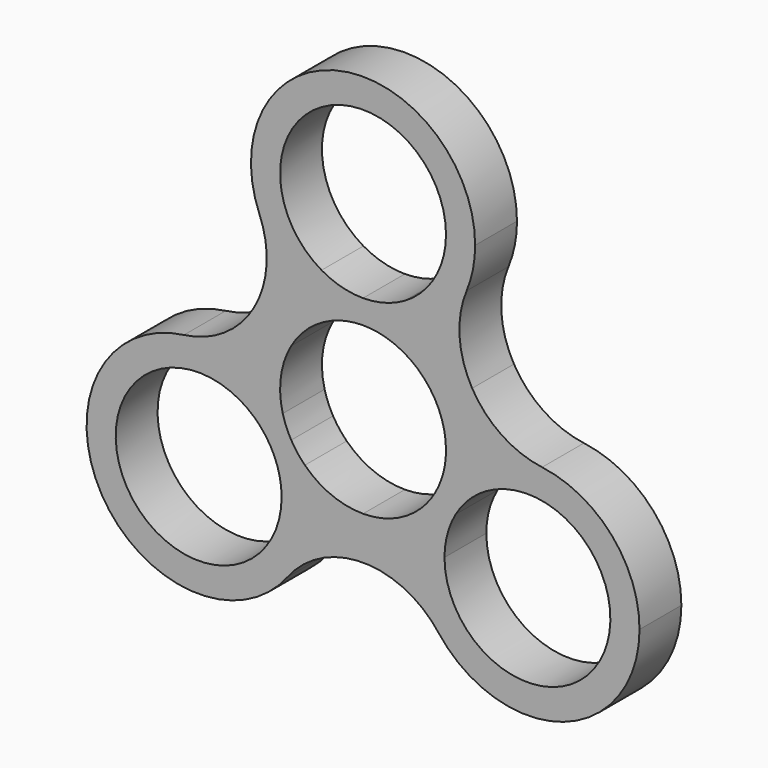
from build123d import *

# Parameters (mm, degrees)
F1_DEPTH = 7


with BuildPart() as f1:
    # F0 (on Front) → F1 (new body)
    with BuildSketch(Plane.XZ):
        with BuildLine():
            Line((-7, 0), (-10.9, 0))
            ThreePointArc((-10.9, 0), (-31.612881982, -5.55), (-16.45, 9.612881982))
            Line((-16.45, 9.612881982), (-14.5, 12.9903810568))
            ThreePointArc((-14.5, 12.9903810568), (-19.0765250841, 14.7123517636), (-23.9637150487, 14.8709052585))
            ThreePointArc((-23.9637150487, 14.8709052585), (-34.9903810568, -7.5), (-10.1032757932, -9.1360797472))
            ThreePointArc((-10.1032757932, -9.1360797472), (-7.7969921654, -4.8243723373), (-7, 0))
        make_face()
        with BuildLine():
            Line((0, 0), (-7, 0))
            ThreePointArc((-7, 0), (-7.7969921654, -4.8243723373), (-10.1032757932, -9.1360797472))
            ThreePointArc((-10.1032757932, -9.1360797472), (-5.6319588622, -5.4687614067), (0, -4.1561539699))
            Line((0, -4.1561539699), (0, 0))
        make_face()
        with BuildLine():
            ThreePointArc((-23.9637150487, 14.8709052585), (-19.0765250841, 14.7123517636), (-14.5, 12.9903810568))
            Line((-14.5, 12.9903810568), (-11, 19.0525588833))
            Line((-11, 19.0525588833), (-14.5993349199, 21.1306358682))
            ThreePointArc((-14.5993349199, 21.1306358682), (-18.5520657365, 16.9095201389), (-23.9637150487, 14.8709052585))
        make_face()
        with BuildLine():
            Line((7, 0), (0, 0))
            Line((0, 0), (0, -4.1561539699))
            ThreePointArc((0, -4.1561539699), (5.6319588622, -5.4687614067), (10.1032757932, -9.1360797472))
            ThreePointArc((10.1032757932, -9.1360797472), (7.7969921654, -4.8243723373), (7, 0))
        make_face()
        with BuildLine():
            Line((-14.5993349199, 21.1306358682), (-11, 19.0525588833))
            Line((-11, 19.0525588833), (-7.5, 25.1147367097))
            ThreePointArc((-7.5, 25.1147367097), (-11.2795329187, 28.2171383402), (-13.8604392555, 32.3702922552))
            ThreePointArc((-13.8604392555, 32.3702922552), (-12.9201068743, 26.6643590343), (-14.5993349199, 21.1306358682))
        make_face()
        with BuildLine():
            Line((10.9, 0), (7, 0))
            ThreePointArc((7, 0), (7.7969921654, -4.8243723373), (10.1032757932, -9.1360797472))
            ThreePointArc((10.1032757932, -9.1360797472), (26.8243723373, -14.2030078346), (37, 0))
            ThreePointArc((37, 0), (33.2795329187, 9.8879794263), (23.9637150487, 14.8709052585))
            ThreePointArc((23.9637150487, 14.8709052585), (19.0765250841, 14.7123517636), (14.5, 12.9903810568))
            Line((14.5, 12.9903810568), (16.45, 9.612881982))
            ThreePointArc((16.45, 9.612881982), (27.55, 9.612881982), (33.1, 0))
            ThreePointArc((33.1, 0), (22, -11.1), (10.9, 0))
        make_face()
        with BuildLine():
            ThreePointArc((-13.8604392555, 32.3702922552), (-11.2795329187, 28.2171383402), (-7.5, 25.1147367097))
            Line((-7.5, 25.1147367097), (-5.55, 28.4922357845))
            ThreePointArc((-5.55, 28.4922357845), (-5.55, 47.7179997485), (11.1, 38.1051177665))
            ThreePointArc((11.1, 38.1051177665), (9.612881982, 32.5551177665), (5.55, 28.4922357845))
            Line((5.55, 28.4922357845), (7.5, 25.1147367097))
            ThreePointArc((7.5, 25.1147367097), (11.2795329187, 28.2171383402), (13.8604392555, 32.3702922552))
            ThreePointArc((13.8604392555, 32.3702922552), (14.7123517636, 35.1816428506), (15, 38.1051177665))
            ThreePointArc((15, 38.1051177665), (-2.9234749159, 52.8174695301), (-13.8604392555, 32.3702922552))
        make_face()
        with BuildLine():
            Line((14.5993349199, 21.1306358682), (11, 19.0525588833))
            Line((11, 19.0525588833), (14.5, 12.9903810568))
            ThreePointArc((14.5, 12.9903810568), (19.0765250841, 14.7123517636), (23.9637150487, 14.8709052585))
            ThreePointArc((23.9637150487, 14.8709052585), (18.5520657365, 16.9095201389), (14.5993349199, 21.1306358682))
        make_face()
        with BuildLine():
            Line((7.5, 25.1147367097), (11, 19.0525588833))
            Line((11, 19.0525588833), (14.5993349199, 21.1306358682))
            ThreePointArc((14.5993349199, 21.1306358682), (12.9201068743, 26.6643590343), (13.8604392555, 32.3702922552))
            ThreePointArc((13.8604392555, 32.3702922552), (11.2795329187, 28.2171383402), (7.5, 25.1147367097))
        make_face()
        with BuildLine():
            Line((11, 19.0525588833), (9.612881982, 18.2517059222))
            ThreePointArc((9.612881982, 18.2517059222), (10.7217766718, 15.5745973228), (11.1, 12.7017059222))
            ThreePointArc((11.1, 12.7017059222), (11.0107964908, 11.2972983465), (10.7446197048, 9.9154633986))
            ThreePointArc((10.7446197048, 9.9154633986), (12.497113483, 11.6058238761), (14.5, 12.9903810568))
            Line((14.5, 12.9903810568), (11, 19.0525588833))
        make_face()
        with BuildLine():
            Line((9.612881982, 7.1517059222), (12.387118018, 5.55))
            ThreePointArc((12.387118018, 5.55), (14.1511147288, 7.8488852712), (16.45, 9.612881982))
            Line((16.45, 9.612881982), (14.5, 12.9903810568))
            ThreePointArc((14.5, 12.9903810568), (12.497113483, 11.6058238761), (10.7446197048, 9.9154633986))
            ThreePointArc((10.7446197048, 9.9154633986), (10.2721252708, 8.4953485406), (9.612881982, 7.1517059222))
        make_face()
        with BuildLine():
            ThreePointArc((7.7852666589, 4.7897135656), (7.1976184329, 2.426829195), (7, 0))
            Line((7, 0), (10.9, 0))
            ThreePointArc((10.9, 0), (11.2782233282, 2.8728914006), (12.387118018, 5.55))
            Line((12.387118018, 5.55), (9.612881982, 7.1517059222))
            ThreePointArc((9.612881982, 7.1517059222), (8.7788749852, 5.9089631776), (7.7852666589, 4.7897135656))
        make_face()
        with BuildLine():
            ThreePointArc((2.9593530459, 23.3999408023), (6.7927427446, 21.4805809074), (9.612881982, 18.2517059222))
            Line((9.612881982, 18.2517059222), (11, 19.0525588833))
            Line((11, 19.0525588833), (7.5, 25.1147367097))
            ThreePointArc((7.5, 25.1147367097), (5.2994950501, 24.0724646954), (2.9593530459, 23.3999408023))
        make_face()
        with BuildLine():
            ThreePointArc((5.55, 28.4922357845), (2.8728914006, 27.3833410947), (0, 27.0051177665))
            Line((0, 27.0051177665), (0, 23.8017059222))
            ThreePointArc((0, 23.8017059222), (1.4932502856, 23.7008060483), (2.9593530459, 23.3999408023))
            ThreePointArc((2.9593530459, 23.3999408023), (5.2994950501, 24.0724646954), (7.5, 25.1147367097))
            Line((7.5, 25.1147367097), (5.55, 28.4922357845))
        make_face()
        with BuildLine():
            Line((-5.55, 28.4922357845), (-7.5, 25.1147367097))
            ThreePointArc((-7.5, 25.1147367097), (-5.2994950501, 24.0724646954), (-2.9593530459, 23.3999408023))
            ThreePointArc((-2.9593530459, 23.3999408023), (-1.4932502856, 23.7008060483), (0, 23.8017059222))
            Line((0, 23.8017059222), (0, 27.0051177665))
            ThreePointArc((0, 27.0051177665), (-2.8728914006, 27.3833410947), (-5.55, 28.4922357845))
        make_face()
        with BuildLine():
            Line((-7.5, 25.1147367097), (-11, 19.0525588833))
            Line((-11, 19.0525588833), (-9.612881982, 18.2517059222))
            ThreePointArc((-9.612881982, 18.2517059222), (-6.7927427446, 21.4805809074), (-2.9593530459, 23.3999408023))
            ThreePointArc((-2.9593530459, 23.3999408023), (-5.2994950501, 24.0724646954), (-7.5, 25.1147367097))
        make_face()
        with BuildLine():
            Line((-11, 19.0525588833), (-14.5, 12.9903810568))
            ThreePointArc((-14.5, 12.9903810568), (-12.497113483, 11.6058238761), (-10.7446197048, 9.9154633986))
            ThreePointArc((-10.7446197048, 9.9154633986), (-10.9991001261, 14.1949562078), (-9.612881982, 18.2517059222))
            Line((-9.612881982, 18.2517059222), (-11, 19.0525588833))
        make_face()
        with BuildLine():
            Line((-14.5, 12.9903810568), (-16.45, 9.612881982))
            ThreePointArc((-16.45, 9.612881982), (-14.1511147288, 7.8488852712), (-12.387118018, 5.55))
            Line((-12.387118018, 5.55), (-9.612881982, 7.1517059222))
            ThreePointArc((-9.612881982, 7.1517059222), (-10.2721252708, 8.4953485406), (-10.7446197048, 9.9154633986))
            ThreePointArc((-10.7446197048, 9.9154633986), (-12.497113483, 11.6058238761), (-14.5, 12.9903810568))
        make_face()
        with BuildLine():
            ThreePointArc((-12.387118018, 5.55), (-11.2782233282, 2.8728914006), (-10.9, 0))
            Line((-10.9, 0), (-7, 0))
            ThreePointArc((-7, 0), (-7.1976184329, 2.426829195), (-7.7852666589, 4.7897135656))
            ThreePointArc((-7.7852666589, 4.7897135656), (-8.7788749852, 5.9089631776), (-9.612881982, 7.1517059222))
            Line((-9.612881982, 7.1517059222), (-12.387118018, 5.55))
        make_face()
        with BuildLine():
            Line((0, 1.6017059222), (0, 0))
            Line((0, 0), (7, 0))
            ThreePointArc((7, 0), (7.1976184329, 2.426829195), (7.7852666589, 4.7897135656))
            ThreePointArc((7.7852666589, 4.7897135656), (4.2063573815, 2.4295806514), (0, 1.6017059222))
        make_face()
        with BuildLine():
            ThreePointArc((-7.7852666589, 4.7897135656), (-7.1976184329, 2.426829195), (-7, 0))
            Line((-7, 0), (0, 0))
            Line((0, 0), (0, 1.6017059222))
            ThreePointArc((0, 1.6017059222), (-4.2063573815, 2.4295806514), (-7.7852666589, 4.7897135656))
        make_face()
    extrude(amount=F1_DEPTH)


solid = f1.part
